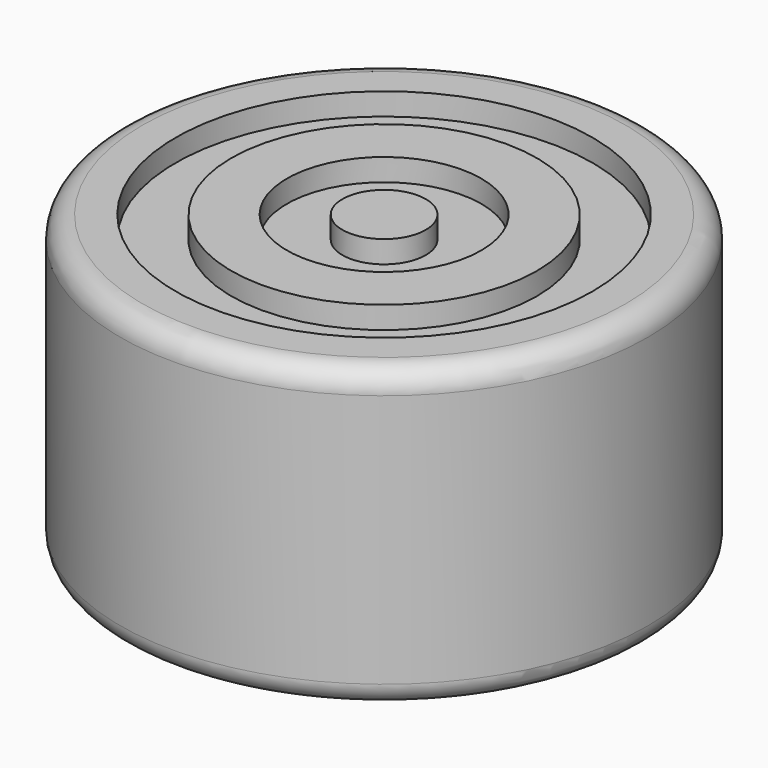
from build123d import *

# Parameters (mm, degrees)
F0_R     = 4.75
F0_W     = 3.6
F0_H     = 3.6
F1_DEPTH = 3.47
F2_R     = 4.75
F2_W     = 3.6
F2_H     = 3.6
F3_DEPTH = 1.5
F4_R     = 4.75
F4_R_2   = 3.75
F4_R_3   = 2.75
F4_R_4   = 1.75
F4_R_5   = 0.75
F5_DEPTH = 0.4
F6_R     = 0.4


with BuildPart() as f1:
    # F0 (on Top) → F1 (new body)
    with BuildSketch(Plane.XY):
        Circle(F0_R)
        Rectangle(F0_W, F0_H, mode=Mode.SUBTRACT)
    extrude(amount=F1_DEPTH)

    # F2 (on face) → F3 (join)
    with BuildSketch(Plane.XY.offset(3.47)):
        Circle(F2_R)
        Rectangle(F2_W, F2_H, mode=Mode.SUBTRACT)
        Rectangle(F2_W, F2_H)
    extrude(amount=F3_DEPTH)

    # F4 (on face) → F5 (join)
    with BuildSketch(Plane.XY.offset(4.97)):
        Circle(F4_R)
        Circle(F4_R_2, mode=Mode.SUBTRACT)
        Circle(F4_R_3)
        Circle(F4_R_4, mode=Mode.SUBTRACT)
        Circle(F4_R_5)
    extrude(amount=F5_DEPTH)

    # F6
    f6_edges = [f1.edges().sort_by_distance(p)[0] for p in [
        (-4.75, 0, 5.37),
        (-4.75, 0, 0),
    ]]
    fillet(f6_edges, radius=F6_R)


solid = f1.part
